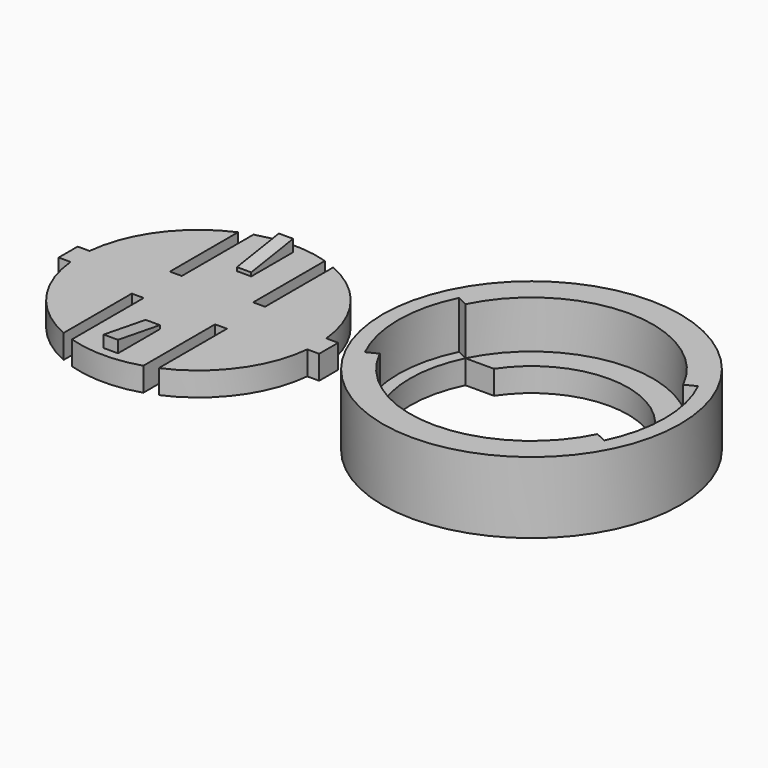
from build123d import *

# Parameters (mm, degrees)
SKETCH_R          = 12.5
PAD_DEPTH         = 6
SKETCH001_R       = 12.5
PAD001_DEPTH      = 2
PAD006_DEPTH      = 2
PAD007_DEPTH      = 0.6
SKETCH008_W       = 1
SKETCH008_H       = 10
POCKET_DEPTH      = 0.001
POCKET_DEPTH_BACK = -3.001


with BuildPart() as body:
    # Sketch → Pad (new body)
    with BuildSketch(Plane.XY):
        Circle(SKETCH_R)
        with BuildLine():
            ThreePointArc((-9.153688, -4.5), (0, -10.2), (9.153688, -4.5))
            Line((10.051108, -4.941176), (9.153688, -4.5))
            ThreePointArc((10.051108, -4.941176), (11.2, 0), (10.051108, 4.941176))
            Line((10.051108, 4.941176), (9.153688, 4.5))
            ThreePointArc((9.153688, 4.5), (0, 10.2), (-9.153688, 4.5))
            Line((-9.153688, 4.5), (-10.051108, 4.941176))
            ThreePointArc((-10.051108, 4.941176), (-11.2, 0), (-10.051108, -4.941176))
            Line((-9.153688, -4.5), (-10.051108, -4.941176))
        make_face(mode=Mode.SUBTRACT)
    extrude(amount=PAD_DEPTH)

    # Sketch001 → Pad001 (join)
    with BuildSketch(Plane.XY):
        Circle(SKETCH001_R)
        with BuildLine():
            ThreePointArc((6.759024, 4.5), (0, 8.12), (-6.759024, 4.5))
            Line((-6.759024, 4.5), (-9.153688, 4.5))
            ThreePointArc((-9.153688, 4.5), (-10.2, 0), (-9.153688, -4.5))
            Line((-6.759024, -4.5), (-9.153688, -4.5))
            ThreePointArc((-6.759024, -4.5), (0, -8.12), (6.759024, -4.5))
            Line((9.153688, -4.5), (6.759024, -4.5))
            ThreePointArc((9.153688, -4.5), (10.2, 0), (9.153688, 4.5))
            Line((9.153688, 4.5), (6.759024, 4.5))
        make_face(mode=Mode.SUBTRACT)
    extrude(amount=PAD001_DEPTH)


with BuildPart() as body001:
    # Sketch006 → Pad006 (new body)
    with BuildSketch(Plane.XY):
        with BuildLine():
            ThreePointArc((9.949874, 1), (0, 10), (-9.949874, 1))
            Line((-9.949874, 1), (-10.949874, 1))
            Line((-10.949874, 1), (-10.949874, -1))
            Line((-10.949874, -1), (-9.949874, -1))
            ThreePointArc((-9.949874, -1), (0, -10), (9.949874, -1))
            Line((9.949874, -1), (10.949874, -1))
            Line((10.949874, -1), (10.949874, 1))
            Line((10.949874, 1), (9.949874, 1))
        make_face()
    extrude(amount=PAD006_DEPTH)

    # Sketch007 → Pad007 (join, symmetric)
    with BuildSketch(Plane.YZ):
        Polygon((4.8, 2), (9.2, 2), (9.2, 3), (4.8, 2.3), align=None)
        Polygon((-4.8, 2), (-9.2, 2), (-9.2, 3), (-4.8, 2.3), align=None)
    extrude(amount=PAD007_DEPTH, both=True)

    # Sketch008 → Pocket (cut, two sides)
    with BuildSketch(Plane.XY) as pocket_sk:
        with Locations((-3.5, 7)):
            Rectangle(SKETCH008_W, SKETCH008_H)
        with Locations((3.5, 7)):
            Rectangle(SKETCH008_W, SKETCH008_H)
        with Locations((-3.5, -7)):
            Rectangle(SKETCH008_W, SKETCH008_H)
        with Locations((3.5, -7)):
            Rectangle(SKETCH008_W, SKETCH008_H)
    extrude(amount=-POCKET_DEPTH, mode=Mode.SUBTRACT)
    extrude(pocket_sk.sketch, amount=-POCKET_DEPTH_BACK, mode=Mode.SUBTRACT)


with BuildPart() as body001_1:
    # Body001 placement: moved
    add(body001.part.moved(Location((-28, 0, 0))))


solid = Compound([body.part, body001_1.part])
